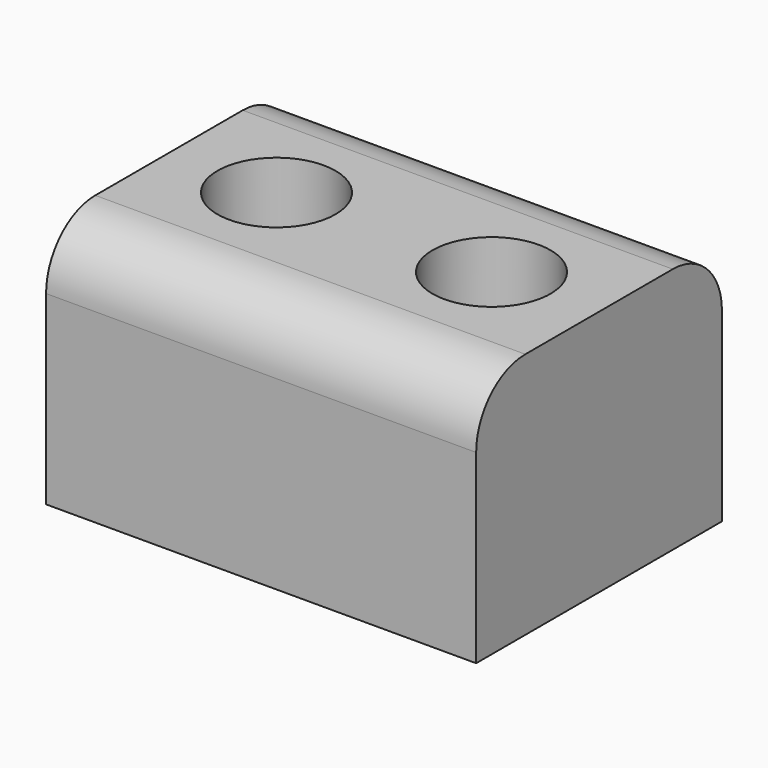
from build123d import *

# Parameters (mm, degrees)
F0_W     = 35
F0_H     = 50
F1_DEPTH = 40.208638
F2_R     = 10
F3_R     = 9.604884
F4_DEPTH = 72.155587


with BuildPart() as f1:
    # F0 (on Top) → F1 (new body)
    with BuildSketch(Plane.XY):
        with Locations((17.5, 25)):
            Rectangle(F0_W, F0_H)
    extrude(amount=F1_DEPTH)

    # F2
    f2_edges = [f1.edges().sort_by_distance(p)[0] for p in [
        (17.5, 0, 40.208638),
        (17.5, 50, 40.208638),
    ]]
    fillet(f2_edges, radius=F2_R)

    # F3 (on face) → F4 (cut)
    with BuildSketch(Plane.XY.offset(40.208638)):
        with Locations((17.5, 25)):
            Circle(F3_R)
    extrude(amount=-F4_DEPTH, mode=Mode.SUBTRACT)

    # F5: F1 across face


with BuildPart() as f1_1:
    add(f1.part)
    add(f1.part.mirror(Plane(origin=(35, 25, 19.714479), x_dir=(0, 1, 0), z_dir=(1, 0, 0))))


solid = f1_1.part
